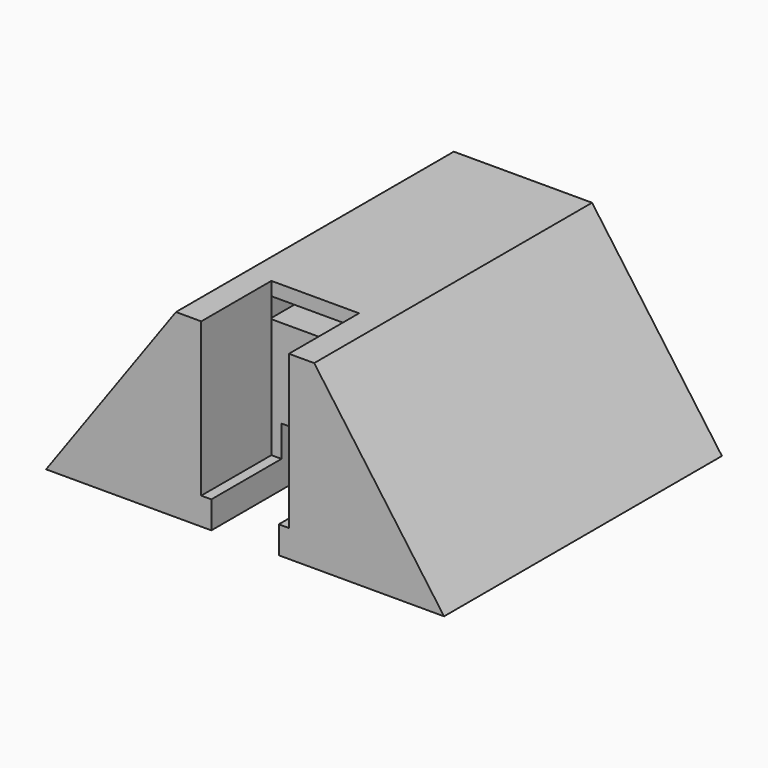
from build123d import *

# Parameters (mm, degrees)
F1_DEPTH = 51.5
F2_W     = 13
F2_H     = 22.75
F3_DEPTH = 13
F4_W     = 13
F4_H     = 3
F5_DEPTH = 5


with BuildPart() as f1:
    # F0 (on Front) → F1 (new body)
    with BuildSketch(Plane.XZ):
        Polygon((5, 0), (29.50686, 0), (10.25, 26.798756), (-10.25, 26.798756), (-29.50686, 0), (-5, 0), (-5, 8.67), (5, 8.67), align=None)
    extrude(amount=F1_DEPTH)

    # F2 (on face) → F3 (cut)
    with BuildSketch(Plane.XZ.offset(51.5)):
        with Locations((0, 15.423756)):
            Rectangle(F2_W, F2_H)
    extrude(amount=-F3_DEPTH, mode=Mode.SUBTRACT)

    # F4 (on face) → F5 (cut)
    with BuildSketch(Plane.XZ.offset(38.5)):
        with Locations((-0.192779, 23.298756)):
            Rectangle(F4_W, F4_H)
    extrude(amount=-F5_DEPTH, mode=Mode.SUBTRACT)


solid = f1.part
